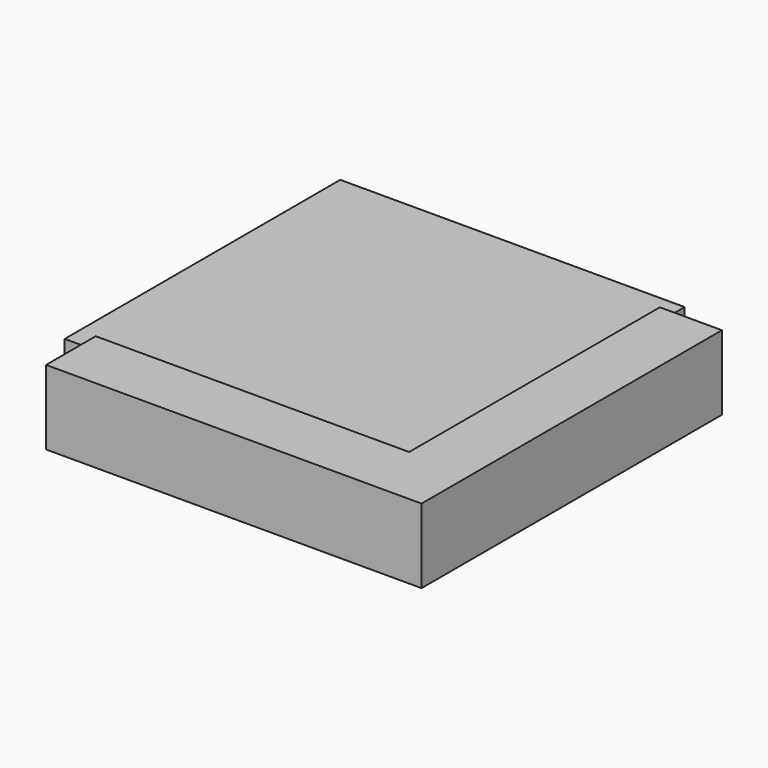
from build123d import *

# Parameters (mm, degrees)
F1_DEPTH = 12
F2_DEPTH = 10


with BuildPart() as f1:
    # F0 (on Top) → F1 (new body)
    with BuildSketch(Plane.XY):
        Polygon((-57.75, -20.25), (-90.75, -20.25), (-90.75, -30.25), (-30.25, -30.25), (-30.25, 30.25), (-40.25, 30.25), (-40.25, -2.5), (-40.25, -20.25), align=None)
    extrude(amount=F1_DEPTH)

    # F0 (on Top) → F2 (join)
    with BuildSketch(Plane.XY):
        Polygon((-90.75, -20.25), (-90.75, 30.25), (-40.25, 30.25), (-40.25, 35.2500006557), (-95.75, 35.2500006557), (-95.75, -20.25), align=None)
        Polygon((-40.25, 30.25), (-90.75, 30.25), (-90.75, -20.25), (-57.75, -20.25), (-40.25, -20.25), (-40.25, -2.5), align=None)
    extrude(amount=F2_DEPTH)


solid = f1.part
